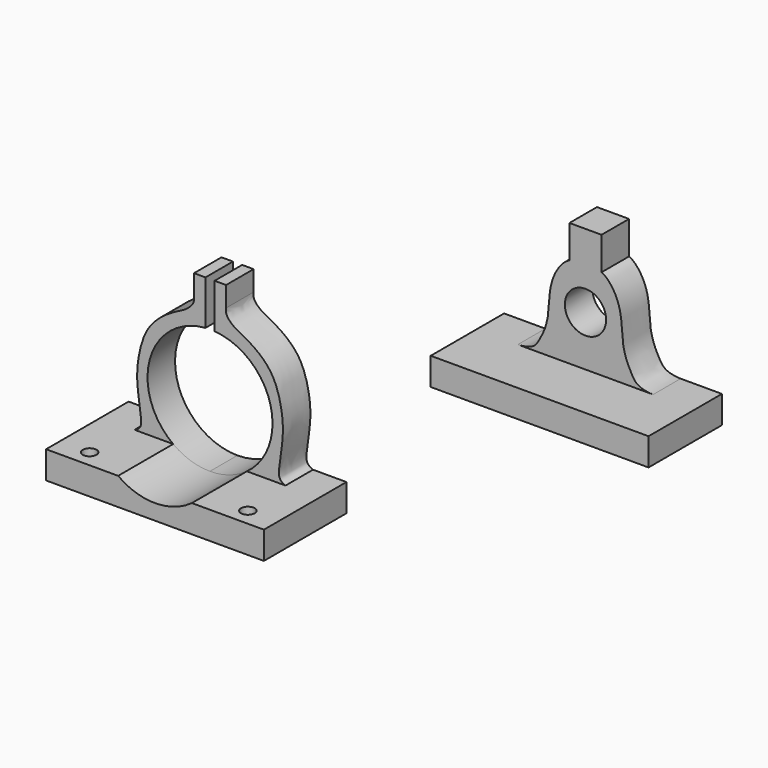
from build123d import *

# Parameters (mm, degrees)
F1_DEPTH = 15
F2_W     = 95
F2_H     = 12
F3_DEPTH = 25
F5_DEPTH = 30
F6_R     = 3
F7_DEPTH = 25


with BuildPart() as f1:
    # F0 (on Front) → F1 (new body)
    with BuildSketch(Plane.XZ):
        with BuildLine():
            Line((-86.7919104606, 148.8248279665), (-93.7919104606, 148.8248279665))
            Line((-93.7919104606, 148.8248279665), (-93.7919104606, 125.8248279665))
            ThreePointArc((-93.7919104606, 125.8248279665), (-84.7919104606, 116.8248279665), (-93.7919104606, 107.8248279665))
            Line((-93.7919104606, 107.8248279665), (-93.7919104606, 82.8248279665))
            Line((-93.7919104606, 82.8248279665), (-46.2919104606, 82.8248279665))
            Line((-46.2919104606, 82.8248279665), (-46.2919104606, 94.8248279665))
            Line((-46.2919104606, 94.8248279665), (-64.2919104606, 94.8248279665))
            add(Edge.make_bspline(
                [(-86.7919104606, 134.4346182567), (-84.6186229965, 133.5189465859), (-80.1312288241, 128.2356920468), (-77.8141041543, 119.2857314457), (-77.824550096, 109.8854181171), (-75.6822417412, 103.3950594754), (-73.7904940331, 99.9910254255), (-71.3124707915, 95.2952731617), (-65.4873071613, 94.8248279665), (-64.2919104606, 94.8248279665)],
                knots=[0, 0, 0, 0, 0.1589153696, 0.3266349591, 0.4941602985, 0.6338202377, 0.7405177517, 0.8628095578, 1, 1, 1, 1], degree=3))
            Line((-86.7919104606, 134.4346182567), (-86.7919104606, 148.8248279665))
        make_face()
        with BuildLine():
            Line((-93.7919104606, 125.8248279665), (-93.7919104606, 148.8248279665))
            Line((-93.7919104606, 148.8248279665), (-100.7919104606, 148.8248279665))
            Line((-100.7919104606, 148.8248279665), (-100.7919104606, 134.4346182567))
            add(Edge.make_bspline(
                [(-100.7919104606, 134.4346182567), (-102.9651979248, 133.5189465859), (-107.4525920971, 128.2356920468), (-109.7697167669, 119.2857314457), (-109.7592708252, 109.8854181171), (-111.90157918, 103.3950594754), (-113.7933268881, 99.9910254255), (-116.2713501297, 95.2952731617), (-122.09651376, 94.8248279665), (-123.2919104606, 94.8248279665)],
                knots=[0, 0, 0, 0, 0.1589153696, 0.3266349591, 0.4941602985, 0.6338202377, 0.7405177517, 0.8628095578, 1, 1, 1, 1], degree=3))
            Line((-123.2919104606, 94.8248279665), (-141.2919104606, 94.8248279665))
            Line((-141.2919104606, 94.8248279665), (-141.2919104606, 82.8248279665))
            Line((-141.2919104606, 82.8248279665), (-93.7919104606, 82.8248279665))
            Line((-93.7919104606, 82.8248279665), (-93.7919104606, 107.8248279665))
            ThreePointArc((-93.7919104606, 107.8248279665), (-102.7919104606, 116.8248279665), (-93.7919104606, 125.8248279665))
        make_face()
    extrude(amount=F1_DEPTH)

    # F2 (on face) → F3 (join)
    with BuildSketch(Plane.XZ.offset(15)):
        with Locations((-93.7919104606, 88.8248279665)):
            Rectangle(F2_W, F2_H)
    extrude(amount=F3_DEPTH)


with BuildPart() as f1b:
    # F0 (on Front) → F1, piece 2 (new body)
    with BuildSketch(Plane.XZ):
        with BuildLine():
            Line((-257.6000979949, -4.2727524898), (-257.6000979949, 2.477310532))
            ThreePointArc((-257.6000979949, 2.477310532), (-284.7741725177, 28.7558565069), (-259.5414917918, 56.9037539082))
            Line((-259.5414917918, 56.9037539082), (-259.5414917918, 76.2926292618))
            Line((-259.5414917918, 76.2926292618), (-264.5414917918, 76.2926292618))
            Line((-264.5414917918, 76.2926292618), (-264.5414917918, 67.4756121834))
            add(Edge.make_bspline(
                [(-290.4570249768, 7.7272475102), (-289.1810761401, 8.2052664847), (-287.0610478005, 9.7665971379), (-288.0067907257, 16.4907230197), (-289.8129929509, 27.7294023947), (-288.7695339108, 37.3587296696), (-285.2655736169, 50.133144334), (-274.6249586166, 58.2213743066), (-268.4604919275, 60.6121886454), (-264.1794193992, 64.7409361805), (-264.5762423932, 66.6883398304), (-264.5414917918, 67.4756121834)],
                knots=[0, 0, 0, 0, 0.0754379169, 0.1766112941, 0.3150596134, 0.4432663677, 0.5896926426, 0.7356900989, 0.8426999539, 0.935912944, 1, 1, 1, 1], degree=3))
            Line((-290.4570249768, 7.7272475102), (-305.0414917918, 7.7272475102))
            Line((-305.0414917918, 7.7272475102), (-305.0414917918, -4.2727524898))
            Line((-305.0414917918, -4.2727524898), (-257.6000979949, -4.2727524898))
        make_face()
        with BuildLine():
            ThreePointArc((-255.5414917918, 56.9037539082), (-237.5782443105, 48.2753269256), (-230.2914917918, 29.7272475102))
            ThreePointArc((-230.2914917918, 29.7272475102), (-238.2935635791, 10.4378784299), (-257.6000979949, 2.477310532))
            Line((-257.6000979949, 2.477310532), (-257.6000979949, -4.2727524898))
            Line((-257.6000979949, -4.2727524898), (-257.4828855888, -4.2727524898))
            Line((-257.4828855888, -4.2727524898), (-210.0414917918, -4.2727524898))
            Line((-210.0414917918, -4.2727524898), (-210.0414917918, 7.7272475102))
            Line((-210.0414917918, 7.7272475102), (-224.6259586068, 7.7272475102))
            add(Edge.make_bspline(
                [(-224.6259586068, 7.7272475102), (-225.9019074436, 8.2052664847), (-228.0219357831, 9.7665971379), (-227.076192858, 16.4907230197), (-225.2699906328, 27.7294023947), (-226.3134496728, 37.3587296696), (-229.8174099667, 50.133144334), (-240.458024967, 58.2213743066), (-246.6224916561, 60.6121886454), (-250.9035641845, 64.7409361805), (-250.5067411904, 66.6883398304), (-250.5414917918, 67.4756121834)],
                knots=[0, 0, 0, 0, 0.0754379169, 0.1766112941, 0.3150596134, 0.4432663677, 0.5896926426, 0.7356900989, 0.8426999539, 0.935912944, 1, 1, 1, 1], degree=3))
            Line((-250.5414917918, 67.4756121834), (-250.5414917918, 76.2926292618))
            Line((-250.5414917918, 76.2926292618), (-255.5414917918, 76.2926292618))
            Line((-255.5414917918, 76.2926292618), (-255.5414917918, 56.9037539082))
        make_face()
    extrude(amount=F1_DEPTH)

    # F4 (on face) → F5 (join)
    with BuildSketch(Plane.XZ.offset(15)):
        with BuildLine():
            Line((-305.0414917918, 7.7272475102), (-305.0414917918, -4.2727524898))
            Line((-305.0414917918, -4.2727524898), (-210.0414917918, -4.2727524898))
            Line((-210.0414917918, -4.2727524898), (-210.0414917918, 7.7272475102))
            Line((-210.0414917918, 7.7272475102), (-224.6259586068, 7.7272475102))
            Line((-224.6259586068, 7.7272475102), (-241.4616130609, 7.7272475102))
            ThreePointArc((-241.4616130609, 7.7272475102), (-257.5414917918, 2.4772475102), (-273.6213705227, 7.7272475102))
            Line((-273.6213705227, 7.7272475102), (-290.4570249768, 7.7272475102))
            Line((-290.4570249768, 7.7272475102), (-305.0414917918, 7.7272475102))
        make_face()
    extrude(amount=F5_DEPTH)

    # F6 (on face) → F7 (cut)
    with BuildSketch(Plane.XY.offset(7.7272475102)):
        with Locations((-292.0414917918, -37.5)):
            Circle(F6_R)
        with Locations((-223.0414917918, -37.5)):
            Circle(F6_R)
    extrude(amount=-F7_DEPTH, mode=Mode.SUBTRACT)


solid = Compound([f1.part, f1b.part])
